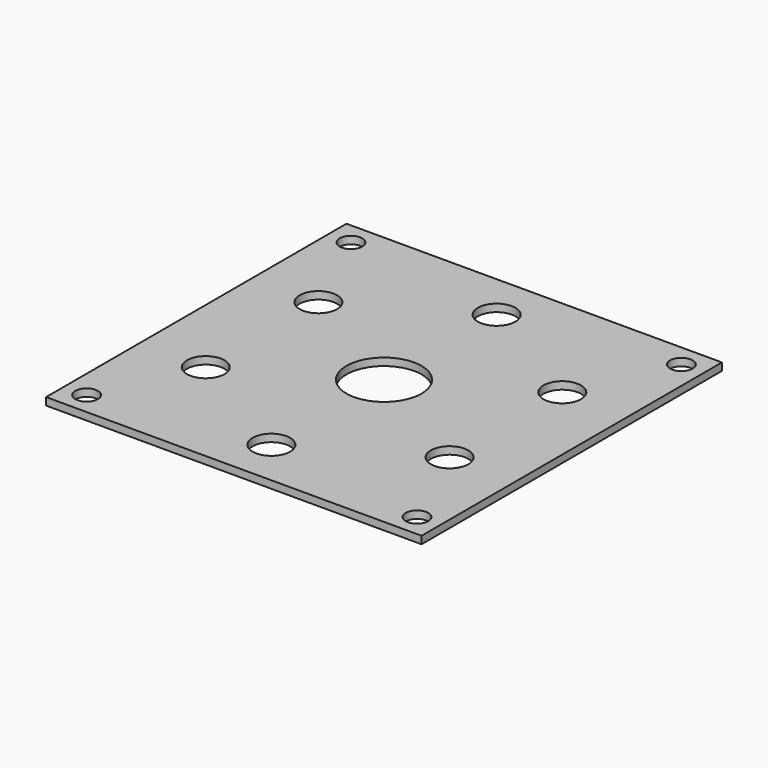
from build123d import *

# Parameters (mm, degrees)
SKETCH001_W   = 200
SKETCH001_H   = 200
SKETCH001_R   = 6
SKETCH001_R_2 = 10
SKETCH001_R_3 = 20
PAD_DEPTH     = 4


with BuildPart() as part:
    # Sketch001 → Pad (new body)
    with BuildSketch(Plane.XY):
        with Locations((100, 100)):
            Rectangle(SKETCH001_W, SKETCH001_H)
        with Locations((12, 12)):
            Circle(SKETCH001_R, mode=Mode.SUBTRACT)
        with Locations((12, 188)):
            Circle(SKETCH001_R, mode=Mode.SUBTRACT)
        with Locations((188, 188)):
            Circle(SKETCH001_R, mode=Mode.SUBTRACT)
        with Locations((188, 12)):
            Circle(SKETCH001_R, mode=Mode.SUBTRACT)
        with Locations((100, 175)):
            Circle(SKETCH001_R_2, mode=Mode.SUBTRACT)
        with Locations((35.048095, 137.5)):
            Circle(SKETCH001_R_2, mode=Mode.SUBTRACT)
        with Locations((35.048095, 62.5)):
            Circle(SKETCH001_R_2, mode=Mode.SUBTRACT)
        with Locations((100, 25)):
            Circle(SKETCH001_R_2, mode=Mode.SUBTRACT)
        with Locations((164.951905, 62.5)):
            Circle(SKETCH001_R_2, mode=Mode.SUBTRACT)
        with Locations((164.951905, 137.5)):
            Circle(SKETCH001_R_2, mode=Mode.SUBTRACT)
        with Locations((100, 100)):
            Circle(SKETCH001_R_3, mode=Mode.SUBTRACT)
    extrude(amount=PAD_DEPTH)


solid = part.part
